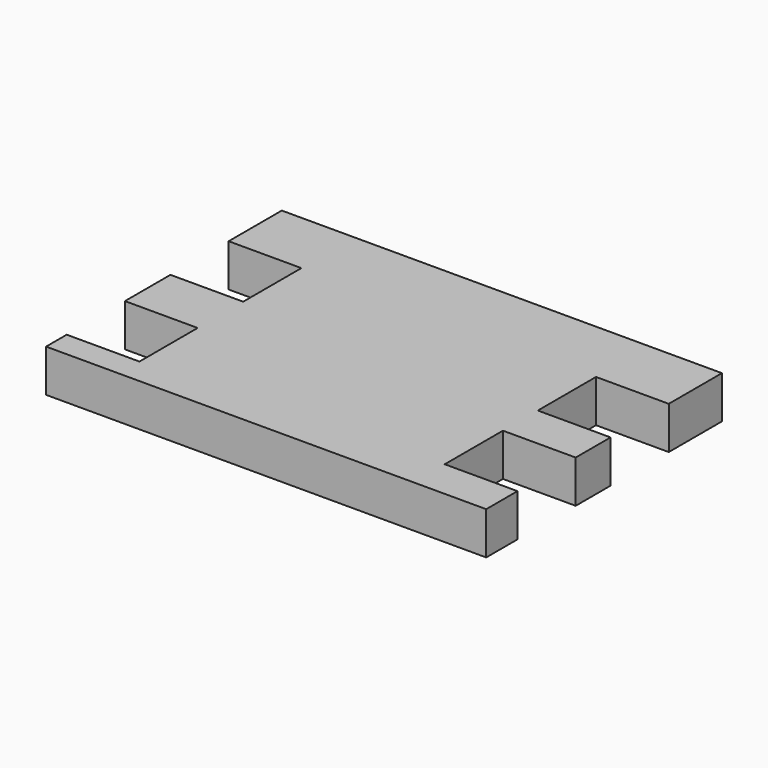
from build123d import *

# Parameters (mm, degrees)
F0_W     = 10
F0_H     = 9.133202
F0_H_2   = 3.546498
F0_H_3   = 5.372296
F0_H_4   = 7.8203
F0_H_5   = 5.994502
F1_DEPTH = 5.842


with BuildPart() as f1:
    # F0 (on Top) → F1 (new body)
    with BuildSketch(Plane.XY):
        with Locations((-25.25, 15.683399)):
            Rectangle(F0_W, F0_H)
        with Locations((-25.25, -18.476751)):
            Rectangle(F0_W, F0_H_2)
        with Locations((25.25, 15.683399)):
            Rectangle(F0_W, F0_H)
        with Locations((25.25, -17.563852)):
            Rectangle(F0_W, F0_H_3)
        with Locations((-25.25, -2.793352)):
            Rectangle(F0_W, F0_H_4)
        with Locations((25.25, -1.880453)):
            Rectangle(F0_W, F0_H_5)
        Polygon((20.25, 20.25), (-20.25, 20.25), (-20.25, 11.116798), (-20.25, 1.116798), (-20.25, -6.703502), (-20.25, -16.703502), (-20.25, -20.25), (20.25, -20.25), (20.25, -14.877704), (20.25, -4.877704), (20.25, 1.116798), (20.25, 11.116798), align=None)
    extrude(amount=F1_DEPTH)


solid = f1.part
